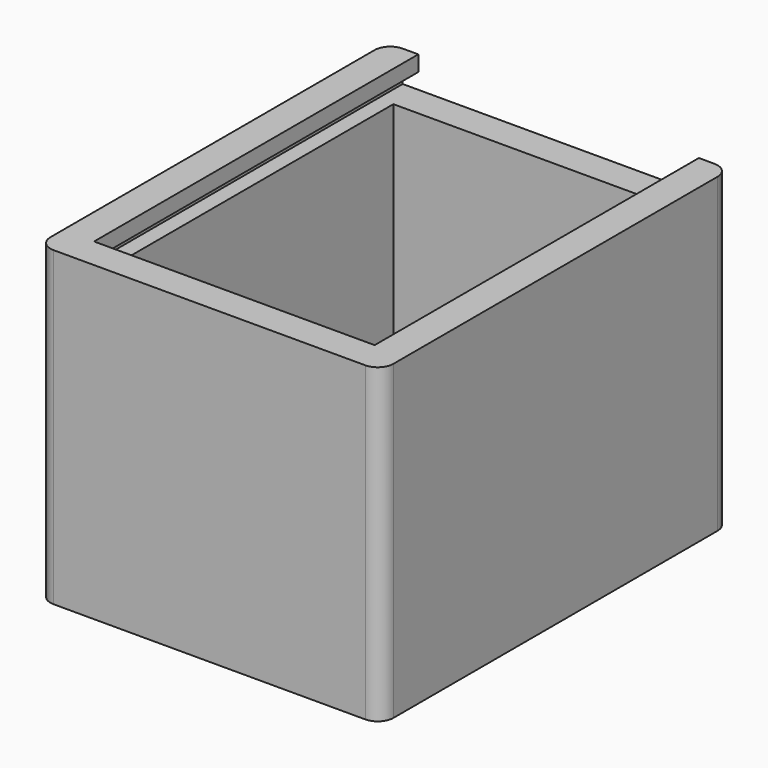
from build123d import *

# Parameters (mm, degrees)
F1_DEPTH  = 100
F2_W      = 90
F2_H      = 120
F3_DEPTH  = 90
F4_W      = 120
F4_H      = 5
F5_DEPTH  = 5
F6_W      = 120
F6_H      = 5
F7_DEPTH  = 5
F8_W      = 90
F8_H      = 10
F9_DEPTH  = 10
F10_W     = 10
F10_H     = 5
F11_DEPTH = 5
F12_W     = 10
F12_H     = 5
F13_DEPTH = 5


with BuildPart() as f1:
    # F0 (on Top) → F1 (new body)
    with BuildSketch(Plane.XY):
        with BuildLine():
            Line((-50, -70), (50, -70))
            ThreePointArc((50, -70), (53.535534, -68.535534), (55, -65))
            Line((55, -65), (55, 65))
            ThreePointArc((55, 65), (53.535534, 68.535534), (50, 70))
            Line((50, 70), (-50, 70))
            ThreePointArc((-50, 70), (-53.535534, 68.535534), (-55, 65))
            Line((-55, 65), (-55, -65))
            ThreePointArc((-55, -65), (-53.535534, -68.535534), (-50, -70))
        make_face()
    extrude(amount=F1_DEPTH)

    # F2 (on face) → F3 (cut)
    with BuildSketch(Plane.XY.offset(100)):
        Rectangle(F2_W, F2_H)
    extrude(amount=-F3_DEPTH, mode=Mode.SUBTRACT)

    # F4 (on face) → F5 (cut)
    with BuildSketch(Plane(origin=(45, 0, 0), x_dir=(0, -1, 0), z_dir=(-1, 0, 0))):
        with Locations((0, 92.5)):
            Rectangle(F4_W, F4_H)
    extrude(amount=-F5_DEPTH, mode=Mode.SUBTRACT)

    # F6 (on face) → F7 (cut)
    with BuildSketch(Plane.YZ.offset(-45)):
        with Locations((0, 92.5)):
            Rectangle(F6_W, F6_H)
    extrude(amount=-F7_DEPTH, mode=Mode.SUBTRACT)

    # F8 (on face) → F9 (cut)
    with BuildSketch(Plane.XZ.offset(-60)):
        with Locations((0, 95)):
            Rectangle(F8_W, F8_H)
    extrude(amount=-F9_DEPTH, mode=Mode.SUBTRACT)

    # F10 (on face) → F11 (cut)
    with BuildSketch(Plane(origin=(45, 0, 0), x_dir=(0, -1, 0), z_dir=(-1, 0, 0))):
        with Locations((-65, 92.5)):
            Rectangle(F10_W, F10_H)
    extrude(amount=-F11_DEPTH, mode=Mode.SUBTRACT)

    # F12 (on face) → F13 (cut)
    with BuildSketch(Plane.YZ.offset(-45)):
        with Locations((65, 92.5)):
            Rectangle(F12_W, F12_H)
    extrude(amount=-F13_DEPTH, mode=Mode.SUBTRACT)


solid = f1.part
